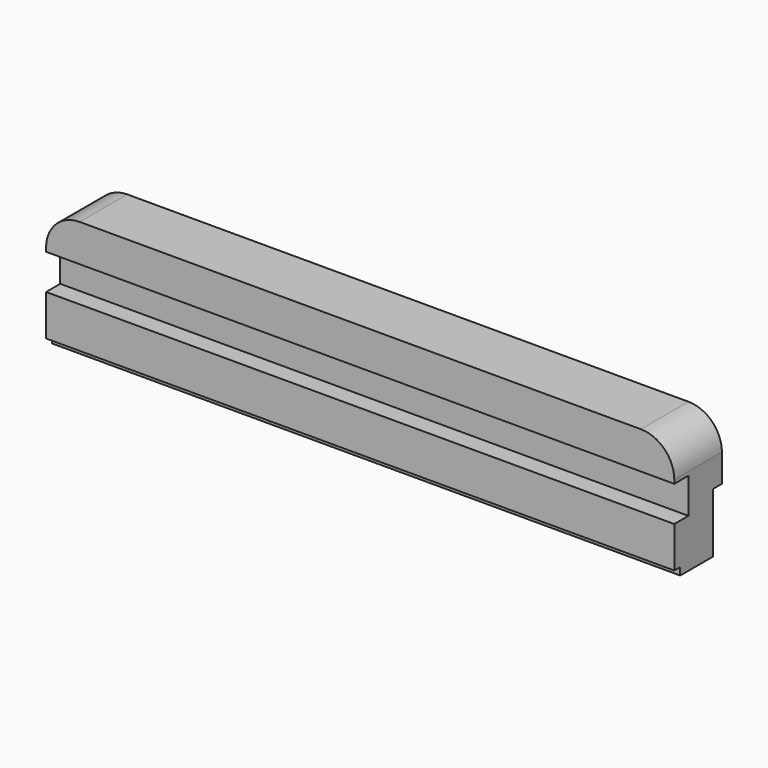
from build123d import *

# Parameters (mm, degrees)
PAD005_DEPTH            = 32
SKETCH013_W             = 337.5
SKETCH013_H             = 19
POCKET007_DEPTH         = 9.5
SKETCH014_W             = 337.5
SKETCH014_H             = 4
POCKET008_DEPTH         = 4
SKETCH015_W             = 337.5
SKETCH015_H             = 32
POCKET009_DEPTH         = 6
BODY004_PLACEMENT_ANGLE = 90


with BuildPart() as part:
    # Sketch012 → Pad005 (new body)
    with BuildSketch(Plane.XY):
        with BuildLine():
            Line((18, 65), (319.5, 65))
            ThreePointArc((337.5, 47), (332.227922, 59.727922), (319.5, 65))
            Line((337.5, 47), (337.5, 0))
            Line((337.5, 0), (0, 0))
            Line((0, 0), (0, 47))
            ThreePointArc((18, 65), (5.272078, 59.727922), (0, 47))
        make_face()
    extrude(amount=PAD005_DEPTH)

    # Sketch013 → Pocket007 (cut)
    with BuildSketch(Plane.XY.offset(32)):
        with Locations((168.75, 35.5)):
            Rectangle(SKETCH013_W, SKETCH013_H)
    extrude(amount=-POCKET007_DEPTH, mode=Mode.SUBTRACT)

    # Sketch014 → Pocket008 (cut)
    with BuildSketch(Plane.XY.offset(32)):
        with Locations((168.75, 2)):
            Rectangle(SKETCH014_W, SKETCH014_H)
    extrude(amount=-POCKET008_DEPTH, mode=Mode.SUBTRACT)

    # Sketch015 → Pocket009 (cut)
    with BuildSketch(Plane(origin=(0, 0, 0), x_dir=(1, 0, 0), z_dir=(0, 0, -1))):
        with Locations((168.75, -16)):
            Rectangle(SKETCH015_W, SKETCH015_H)
    extrude(amount=-POCKET009_DEPTH, mode=Mode.SUBTRACT)


with BuildPart() as part_1:
    # Body004 placement: moved
    add(part.part.moved(Location((22.5, 6, 0))).rotate(Axis((22.5, 6, 0), (1, 0, 0)), BODY004_PLACEMENT_ANGLE))


with BuildPart() as part_2:
    # Body006 placement: moved
    add(part_1.part.moved(Location((-382.5, 0, 0))))


solid = part_2.part
